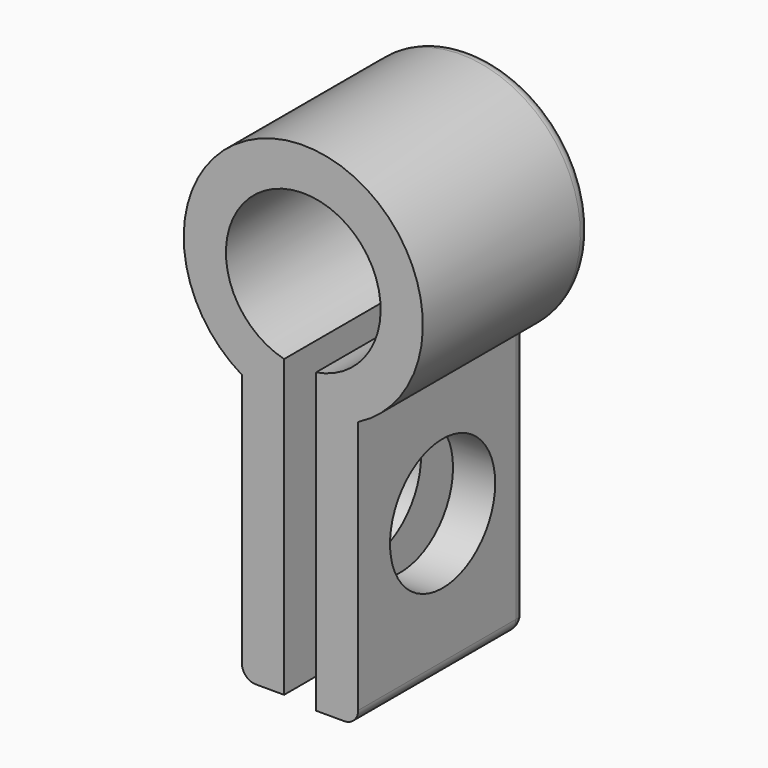
from build123d import *

# Parameters (mm, degrees)
F1_DEPTH = 15
F2_R     = 4.6736
F3_DEPTH = 29.8
F4_R     = 1


with BuildPart() as f1:
    # F0 (on Front) → F1 (new body)
    with BuildSketch(Plane.XZ):
        with BuildLine():
            ThreePointArc((-1.364345, -5.328092), (0.234996, 5.494977), (0.904479, -5.425119))
            Line((0.904479, -5.425119), (0.904479, -26.600169))
            Line((0.904479, -26.600169), (3.904479, -26.600169))
            Line((3.904479, -26.600169), (3.904479, -7.550169))
            ThreePointArc((3.904479, -7.550169), (0.2632, 8.495924), (-4.364345, -7.294004))
            Line((-4.364345, -7.294004), (-4.364345, -26.344004))
            Line((-4.364345, -26.344004), (-1.364345, -26.344004))
            Line((-1.364345, -26.344004), (-1.364345, -5.328092))
        make_face()
    extrude(amount=F1_DEPTH)

    # F2 (on face) → F3 (cut, symmetric)
    with BuildSketch(Plane.YZ.offset(3.904479)):
        with Locations((-7.5, -16.32629)):
            Circle(F2_R)
    extrude(amount=F3_DEPTH, both=True, mode=Mode.SUBTRACT)

    # F4
    f4_edges = [f1.edges().sort_by_distance(p)[0] for p in [
        (-4.364345, 0, -16.819004),
        (0.2632, 0, 8.495924),
        (3.904479, 0, -17.075169),
        (2.404479, 0, -26.600169),
        (-2.864345, 0, -26.344004),
        (3.904479, -7.5, -26.600169),
        (-4.364345, -7.5, -26.344004),
    ]]
    fillet(f4_edges, radius=F4_R)


solid = f1.part
